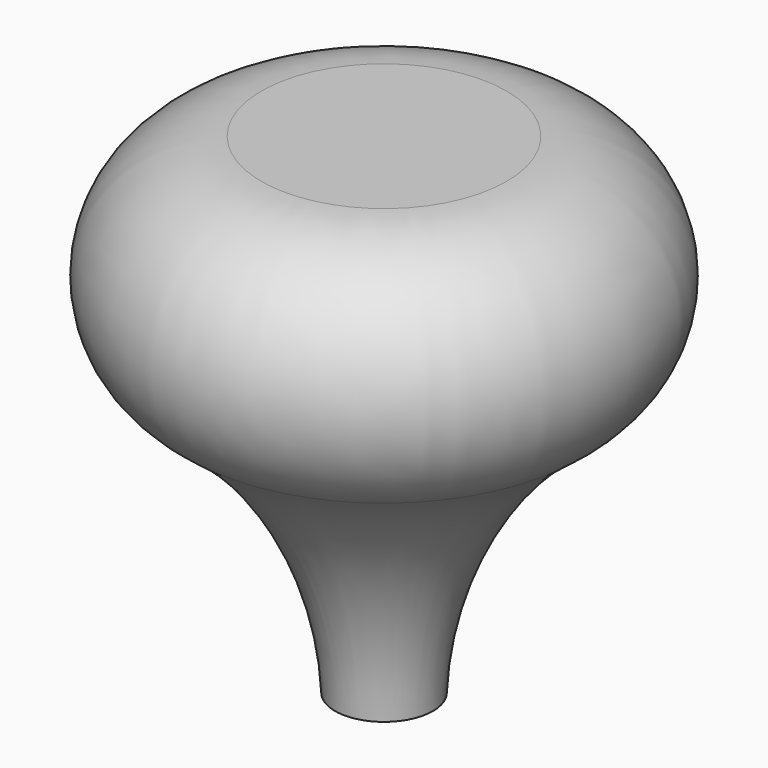
from build123d import *


with BuildPart() as f1:
    # F0 (on Front) → F1 (revolve)
    with BuildSketch(Plane.XZ):
        with BuildLine():
            Line((0.75, 3), (0, 3))
            Line((0, 3), (0, 0))
            Line((0, 0), (0.3, 0))
            ThreePointArc((0.3, 0), (0.552147, 0.922425), (1.185179, 1.639165))
            ThreePointArc((1.185179, 1.639165), (1.464362, 2.478445), (0.75, 3))
        make_face()
    revolve(axis=Axis((0, 0, 21.948844), (0, 0, -1)))


solid = f1.part
